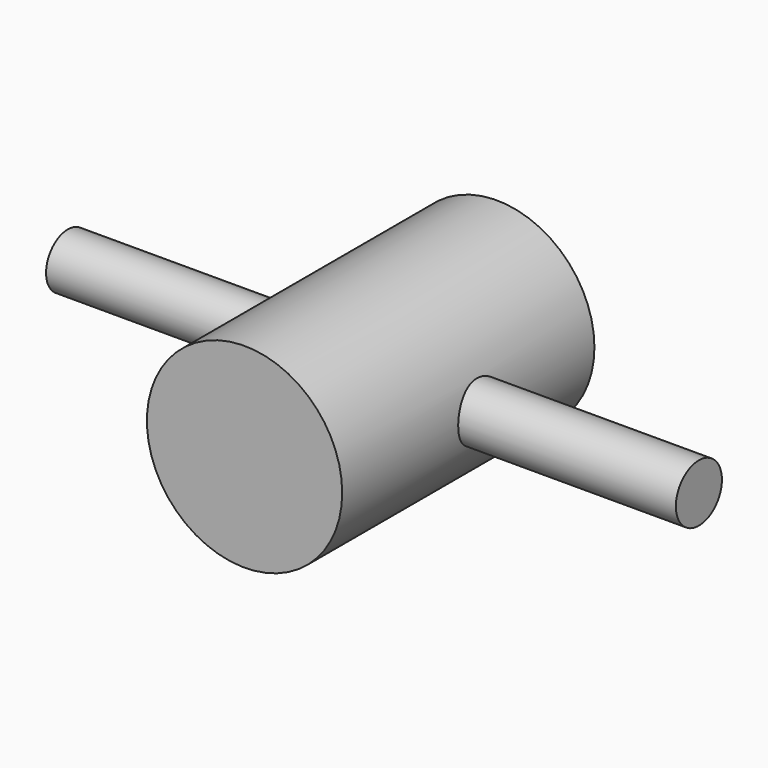
from build123d import *

# Parameters (mm, degrees)
F0_R     = 23.601402
F1_DEPTH = 76.2
F2_R     = 6.959229
F3_DEPTH = 76.2
F4_R     = 6.59301
F5_DEPTH = 76.2


with BuildPart() as f1:
    # F0 (on Front) → F1 (new body)
    with BuildSketch(Plane.XZ):
        Circle(F0_R)
    extrude(amount=F1_DEPTH)

    # F2 (on Right) → F3 (join)
    with BuildSketch(Plane.YZ):
        with Locations((-34.191292, 0)):
            Circle(F2_R)
    extrude(amount=F3_DEPTH)

    # F4 (on Right) → F5 (join)
    with BuildSketch(Plane.YZ):
        with Locations((-34.327276, 0)):
            Circle(F4_R)
    extrude(amount=-F5_DEPTH)


solid = f1.part
